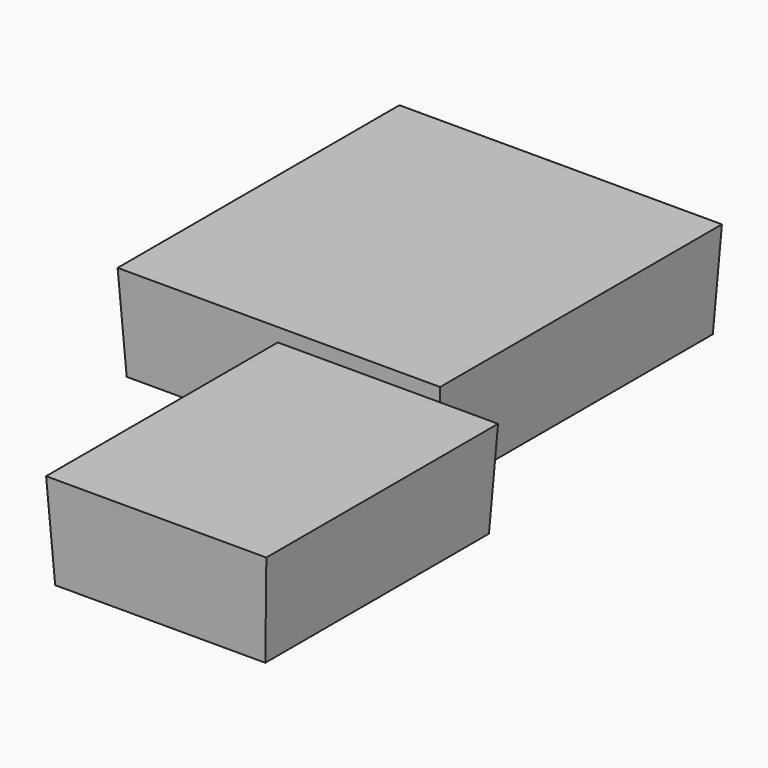
from build123d import *

# Parameters (mm, degrees)
F1_W     = 82.3446027935
F1_H     = 90.1869386435
F0_DEPTH = 25.4
F0_TAPER = -3
F1_W_2   = 55.3942993283
F1_H_2   = 73.6843645573


with BuildPart() as f0:
    # F1 (on Top) → F0 (new body)
    with BuildSketch(Plane.XY):
        with Locations((-5.3390022367, 1.8031001091)):
            Rectangle(F1_W, F1_H)
    extrude(amount=F0_DEPTH, taper=F0_TAPER)


with BuildPart() as f0b:
    # F1 (on Top) → F0, piece 2 (new body)
    with BuildSketch(Plane.XY):
        with Locations((27.6971496642, -88.1580412388)):
            Rectangle(F1_W_2, F1_H_2)
    extrude(amount=F0_DEPTH, taper=F0_TAPER)


solid = Compound([f0.part, f0b.part])
